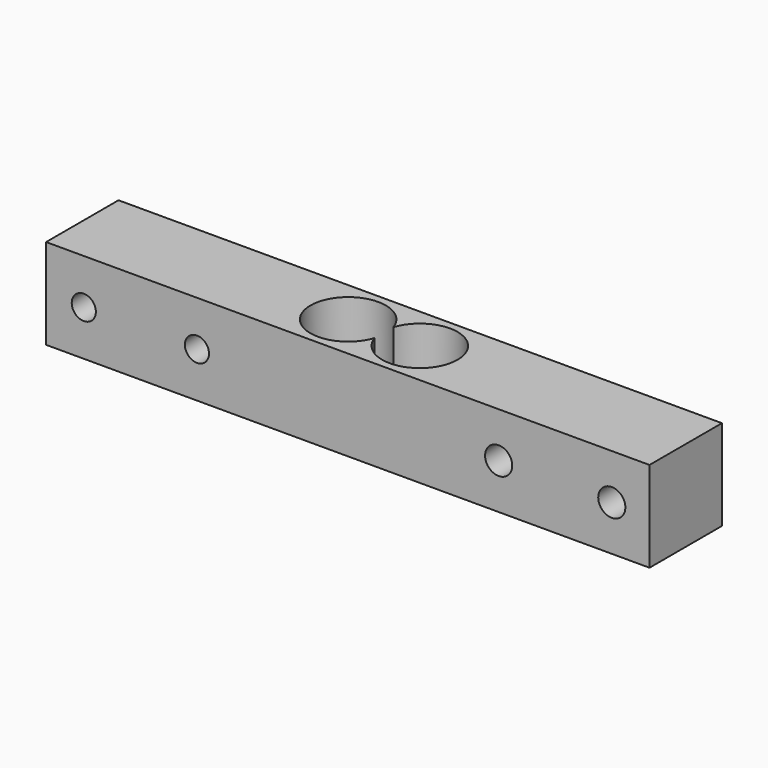
from build123d import *

# Parameters (mm, degrees)
F0_W     = 80
F0_H     = 12
F1_DEPTH = 12
F3_R     = 5
F4_DEPTH = 25
F2_R     = 5
F5_DEPTH = 25
F6_R     = 1.6
F6_R_2   = 1.8
F7_DEPTH = 25


with BuildPart() as f1:
    # F0 (on Front) → F1 (new body)
    with BuildSketch(Plane.XZ):
        with Locations((40, 6)):
            Rectangle(F0_W, F0_H)
    extrude(amount=F1_DEPTH)

    # F3 (on face) → F4 (cut)
    with BuildSketch(Plane.XY.offset(12)):
        with Locations((44.75, -6)):
            Circle(F3_R)
    extrude(amount=-F4_DEPTH, mode=Mode.SUBTRACT)

    # F2 (on face) → F5 (cut)
    with BuildSketch(Plane.XY.offset(12)):
        with Locations((35.25, -6)):
            Circle(F2_R)
    extrude(amount=-F5_DEPTH, mode=Mode.SUBTRACT)

    # F6 (on face) → F7 (cut)
    with BuildSketch(Plane(origin=(0, 0, 0), x_dir=(-1, 0, 0), z_dir=(0, 1, 0))):
        with Locations((-5, 6)):
            Circle(F6_R)
        with Locations((-20, 6)):
            Circle(F6_R)
        with Locations((-75, 6)):
            Circle(F6_R_2)
        with Locations((-60, 6)):
            Circle(F6_R_2)
    extrude(amount=-F7_DEPTH, mode=Mode.SUBTRACT)


solid = f1.part
